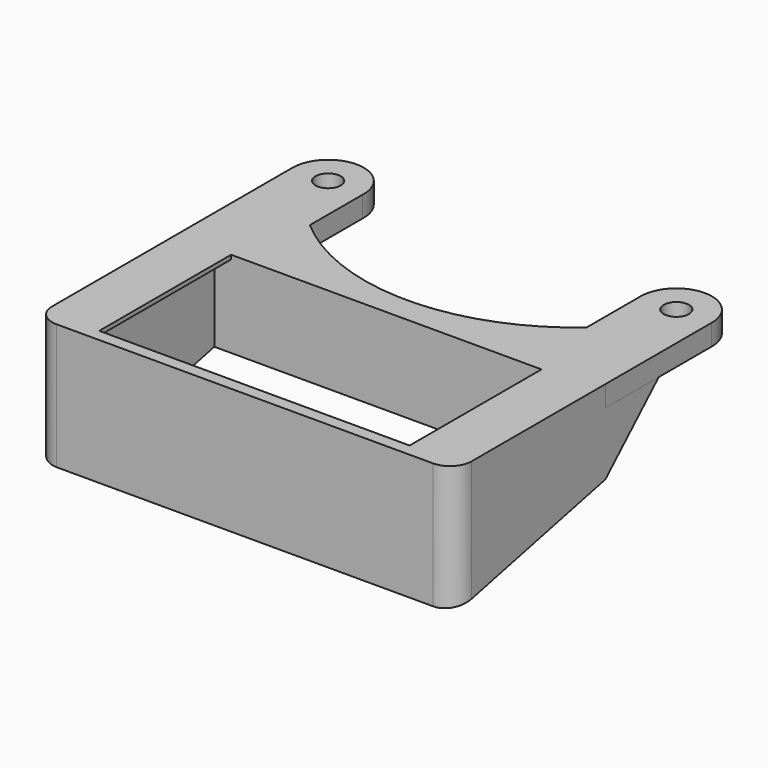
from build123d import *

# Parameters (mm, degrees)
F0_W      = 100
F0_H      = 45
F1_DEPTH  = 30
F2_W      = 74
F2_H      = 39.3
F3_DEPTH  = 30.001
F5_DEPTH  = 100.001
F7_DEPTH  = 5
F10_DEPTH = 100
F12_DEPTH = 25.4
F13_R     = 3
F14_DEPTH = 25.4
F15_R     = 5.08
F17_DEPTH = 4
F19_DEPTH = 4


with BuildPart() as f1:
    # F0 (on Top) → F1 (new body)
    with BuildSketch(Plane.XY):
        with Locations((50, 22.5)):
            Rectangle(F0_W, F0_H)
    extrude(amount=F1_DEPTH)

    # F2 (on face) → F3 (cut, through all)
    with BuildSketch(Plane.XY.offset(30)):
        with Locations((50, 22.55)):
            Rectangle(F2_W, F2_H)
    extrude(amount=-F3_DEPTH, mode=Mode.SUBTRACT)

    # F4 (on face) → F5 (cut, through all)
    with BuildSketch(Plane(origin=(0, 0, 0), x_dir=(0, -1, 0), z_dir=(-1, 0, 0))):
        Polygon((-45, 0), (0, 0), (-45, 10), align=None)
    extrude(amount=-F5_DEPTH, mode=Mode.SUBTRACT)

    # F6 (on face) → F7 (join)
    with BuildSketch(Plane.XY.offset(30)):
        with BuildLine():
            Line((16.9887500545, 60.6564121963), (16.9887500545, 76.3128243926))
            ThreePointArc((16.9887500545, 76.3128243926), (8.7186601661, 85.2471870482), (0, 76.75))
            Line((0, 76.75), (0, 45))
            Line((0, 45), (100, 45))
            Line((100, 45), (99.9984056515, 76.5853750228))
            ThreePointArc((99.9984056515, 76.5853750228), (91.5120769432, 85.2499914204), (83.0011608569, 76.609525019))
            Line((83.0011608569, 76.609525019), (83.0011608569, 60.6564121963))
            Line((83.0011608569, 60.6564121963), (16.9887500545, 60.6564121963))
        make_face()
    extrude(amount=-F7_DEPTH)

    # F8: union 

    # F9 (on face) → F10 (join)
    with BuildSketch(Plane(origin=(0, 0, 0), x_dir=(0, -1, 0), z_dir=(-1, 0, 0))):
        Polygon((-60.875, 25), (-45, 10), (-45, 25), align=None)
    extrude(amount=-F10_DEPTH)

    # F11 (on face) → F12 (cut)
    with BuildSketch(Plane.XY.offset(30)):
        with BuildLine():
            Line((16.9887500545, 65.0414451957), (16.9887500545, 60.6564121963))
            ThreePointArc((16.9887500545, 60.6564121963), (49.9949554557, 48.3478851896), (83.0011608569, 60.6564121963))
            Line((83.0011608569, 60.6564121963), (83.0011608569, 65.0414451957))
            Line((83.0011608569, 65.0414451957), (16.9887500545, 65.0414451957))
        make_face()
    extrude(amount=-F12_DEPTH, mode=Mode.SUBTRACT)

    # F13 (on face) → F14 (cut)
    with BuildSketch(Plane.XY.offset(30)):
        with Locations((8.5, 76.75)):
            Circle(F13_R)
        with Locations((91.5, 76.75)):
            Circle(F13_R)
    extrude(amount=-F14_DEPTH, mode=Mode.SUBTRACT)

    # F15
    f15_edges = [f1.edges().sort_by_distance(p)[0] for p in [
        (0, 0, 15),
        (100, 0, 15),
    ]]
    fillet(f15_edges, radius=F15_R)

    # F16 (on face) → F17 (cut)
    with BuildSketch(Plane.YZ.offset(13)):
        Polygon((2.9, 29), (2.9, 0.6444444444), (42.2, 9.3777777778), (42.2, 29), align=None)
    extrude(amount=-F17_DEPTH, mode=Mode.SUBTRACT)

    # F18 (on face) → F19 (cut)
    with BuildSketch(Plane(origin=(87, 0, 0), x_dir=(0, -1, 0), z_dir=(-1, 0, 0))):
        Polygon((-42.2, 9.3777777778), (-2.9, 0.6444444444), (-2.9, 29), (-42.2, 29), align=None)
    extrude(amount=-F19_DEPTH, mode=Mode.SUBTRACT)


solid = f1.part
